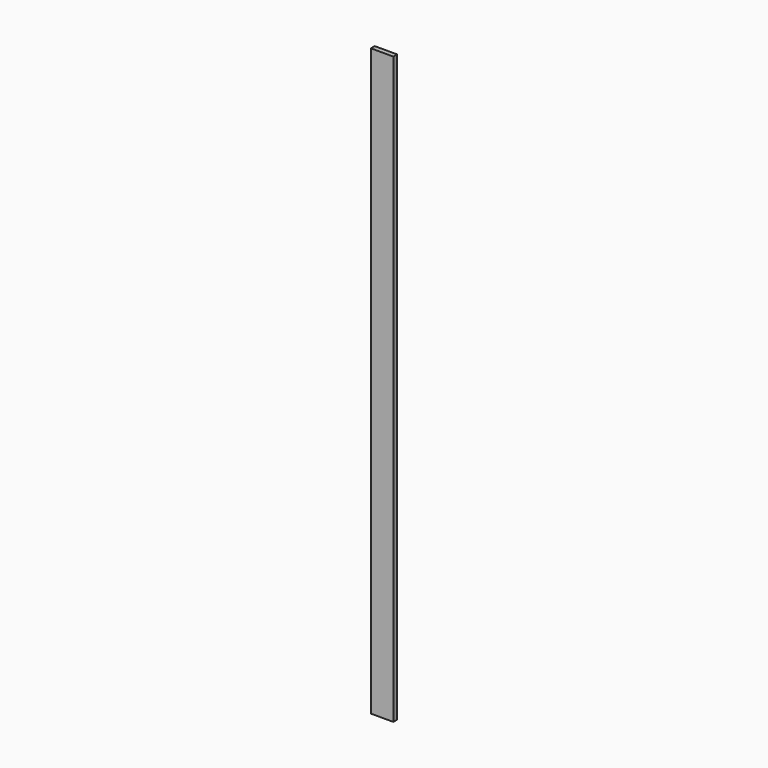
from build123d import *

# Parameters (mm, degrees)
F0_W     = 89
F0_H     = 2320
F1_DEPTH = 9.5


with BuildPart() as f1:
    # F0 (on Front) → F1 (new body, symmetric)
    with BuildSketch(Plane.XZ):
        with Locations((-4.657e-07, 0)):
            Rectangle(F0_W, F0_H)
    extrude(amount=F1_DEPTH, both=True)


solid = f1.part
